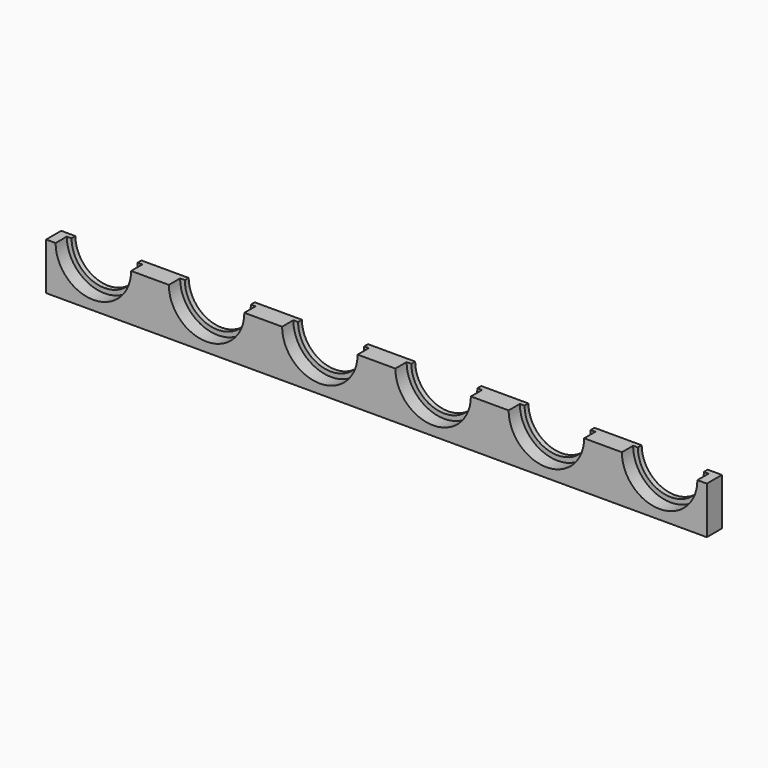
from build123d import *

# Parameters (mm, degrees)
F1_DEPTH  = 3.175
F3_DEPTH  = 2.3622
F5_DEPTH  = 1.5875
F7_DEPTH  = 1.5875
F9_DEPTH  = 2.3876
F11_DEPTH = 2.3876
F12_W     = 1.5875
F12_H     = 7.9375
F13_DEPTH = 25.4


with BuildPart() as f1:
    # F0 (on Front) → F1 (new body)
    with BuildSketch(Plane.XZ):
        with BuildLine():
            Line((-103.2002, -7.9375), (-95.25, -7.9375))
            ThreePointArc((-95.25, -7.9375), (-100.8626600757, -5.6126600757), (-103.1875, 0))
            Line((-103.1875, 0), (-103.2002, 0))
            Line((-103.2002, 0), (-103.2002, -7.9375))
        make_face()
        with BuildLine():
            Line((7.9375, -7.9375), (7.9375, 0))
            ThreePointArc((7.9375, 0), (5.6126600757, -5.6126600757), (0, -7.9375))
            Line((0, -7.9375), (7.9375, -7.9375))
        make_face()
        with BuildLine():
            ThreePointArc((0, -7.9375), (-5.6126600757, -5.6126600757), (-7.9375, 0))
            Line((-7.9375, 0), (-11.1125, 0))
            ThreePointArc((-11.1125, 0), (-13.4373399243, -5.6126600757), (-19.05, -7.9375))
            Line((-19.05, -7.9375), (0, -7.9375))
        make_face()
        with BuildLine():
            Line((-38.1, -7.9375), (-19.05, -7.9375))
            ThreePointArc((-19.05, -7.9375), (-24.6626600757, -5.6126600757), (-26.9875, 0))
            Line((-26.9875, 0), (-30.1625, 0))
            ThreePointArc((-30.1625, 0), (-32.4873399243, -5.6126600757), (-38.1, -7.9375))
        make_face()
        with BuildLine():
            Line((-57.1500000951, -7.9375), (-38.1, -7.9375))
            ThreePointArc((-38.1, -7.9375), (-43.7126600757, -5.6126600757), (-46.0375, 0))
            Line((-46.0375, 0), (-49.2125, 0))
            ThreePointArc((-49.2125, 0), (-51.537339958, -5.6126601093), (-57.1500000951, -7.9375))
        make_face()
        with BuildLine():
            Line((-76.2, -7.9375), (-57.1500000951, -7.9375))
            ThreePointArc((-57.1500000951, -7.9375), (-62.7626601093, -5.612660042), (-65.0875, 0))
            Line((-65.0875, 0), (-68.2625, 0))
            ThreePointArc((-68.2625, 0), (-70.5873399243, -5.6126600757), (-76.2, -7.9375))
        make_face()
        with BuildLine():
            Line((-95.25, -7.9375), (-76.2, -7.9375))
            ThreePointArc((-76.2, -7.9375), (-81.8126600757, -5.6126600757), (-84.1375, 0))
            Line((-84.1375, 0), (-87.3125, 0))
            ThreePointArc((-87.3125, 0), (-89.6373399243, -5.6126600757), (-95.25, -7.9375))
        make_face()
        with BuildLine():
            ThreePointArc((0, -6.35), (-4.4901280605, -4.4901280605), (-6.35, 0))
            Line((-6.35, 0), (-7.9375, 0))
            ThreePointArc((-7.9375, 0), (-5.6126600757, -5.6126600757), (0, -7.9375))
            Line((0, -7.9375), (0, -6.35))
        make_face()
        with BuildLine():
            ThreePointArc((-19.05, -7.9375), (-13.4373399243, -5.6126600757), (-11.1125, 0))
            Line((-11.1125, 0), (-12.7, 0))
            ThreePointArc((-12.7, 0), (-19.05, -6.35), (-25.4, 0))
            Line((-25.4, 0), (-26.9875, 0))
            ThreePointArc((-26.9875, 0), (-24.6626600757, -5.6126600757), (-19.05, -7.9375))
        make_face()
        with BuildLine():
            ThreePointArc((-46.0375, 0), (-43.7126600757, -5.6126600757), (-38.1, -7.9375))
            ThreePointArc((-38.1, -7.9375), (-32.4873399243, -5.6126600757), (-30.1625, 0))
            Line((-30.1625, 0), (-31.75, 0))
            ThreePointArc((-31.75, 0), (-38.1, -6.35), (-44.45, 0))
            Line((-44.45, 0), (-46.0375, 0))
        make_face()
        with BuildLine():
            ThreePointArc((-65.0875, 0), (-62.7626601093, -5.612660042), (-57.1500000951, -7.9375))
            ThreePointArc((-57.1500000951, -7.9375), (-51.537339958, -5.6126601093), (-49.2125, 0))
            Line((-49.2125, 0), (-50.8, 0))
            ThreePointArc((-50.8, 0), (-57.15, -6.35), (-63.5, 0))
            Line((-63.5, 0), (-65.0875, 0))
        make_face()
        with BuildLine():
            ThreePointArc((-84.1375, 0), (-81.8126600757, -5.6126600757), (-76.2, -7.9375))
            ThreePointArc((-76.2, -7.9375), (-70.5873399243, -5.6126600757), (-68.2625, 0))
            Line((-68.2625, 0), (-69.85, 0))
            ThreePointArc((-69.85, 0), (-76.2, -6.35), (-82.55, 0))
            Line((-82.55, 0), (-84.1375, 0))
        make_face()
        with BuildLine():
            Line((-95.25, -6.35), (-95.25, -7.9375))
            ThreePointArc((-95.25, -7.9375), (-89.6373399243, -5.6126600757), (-87.3125, 0))
            Line((-87.3125, 0), (-88.9, 0))
            ThreePointArc((-88.9, 0), (-90.7598719395, -4.4901280605), (-95.25, -6.35))
        make_face()
        with BuildLine():
            ThreePointArc((-103.1875, 0), (-100.8626600757, -5.6126600757), (-95.25, -7.9375))
            Line((-95.25, -7.9375), (-95.25, -6.35))
            ThreePointArc((-95.25, -6.35), (-99.7401280605, -4.4901280605), (-101.6, 0))
            Line((-101.6, 0), (-103.1875, 0))
        make_face()
        with BuildLine():
            Line((7.9375, 0), (6.35, 0))
            ThreePointArc((6.35, 0), (4.4901280605, -4.4901280605), (0, -6.35))
            Line((0, -6.35), (0, -7.9375))
            ThreePointArc((0, -7.9375), (5.6126600757, -5.6126600757), (7.9375, 0))
        make_face()
        with BuildLine():
            ThreePointArc((-82.55, 0), (-76.2, -6.35), (-69.85, 0))
            Line((-69.85, 0), (-70.64375, 0))
            ThreePointArc((-70.64375, 0), (-76.2, -5.55625), (-81.75625, 0))
            Line((-81.75625, 0), (-82.55, 0))
        make_face()
        with BuildLine():
            ThreePointArc((-63.5, 0), (-57.15, -6.35), (-50.8, 0))
            Line((-50.8, 0), (-51.59375, 0))
            ThreePointArc((-51.59375, 0), (-57.15, -5.55625), (-62.70625, 0))
            Line((-62.70625, 0), (-63.5, 0))
        make_face()
        with BuildLine():
            ThreePointArc((-44.45, 0), (-38.1, -6.35), (-31.75, 0))
            Line((-31.75, 0), (-32.54375, 0))
            ThreePointArc((-32.54375, 0), (-38.1, -5.55625), (-43.65625, 0))
            Line((-43.65625, 0), (-44.45, 0))
        make_face()
        with BuildLine():
            ThreePointArc((-25.4, 0), (-19.05, -6.35), (-12.7, 0))
            Line((-12.7, 0), (-13.49375, 0))
            ThreePointArc((-13.49375, 0), (-19.05, -5.55625), (-24.60625, 0))
            Line((-24.60625, 0), (-25.4, 0))
        make_face()
        with BuildLine():
            ThreePointArc((0, -5.55625), (-3.928862053, -3.928862053), (-5.55625, 0))
            Line((-5.55625, 0), (-6.35, 0))
            ThreePointArc((-6.35, 0), (-4.4901280605, -4.4901280605), (0, -6.35))
            Line((0, -6.35), (0, -5.55625))
        make_face()
        with BuildLine():
            Line((6.35, 0), (5.55625, 0))
            ThreePointArc((5.55625, 0), (3.928862053, -3.928862053), (0, -5.55625))
            Line((0, -5.55625), (0, -6.35))
            ThreePointArc((0, -6.35), (4.4901280605, -4.4901280605), (6.35, 0))
        make_face()
        with BuildLine():
            Line((-95.25, -5.55625), (-95.25, -6.35))
            ThreePointArc((-95.25, -6.35), (-90.7598719395, -4.4901280605), (-88.9, 0))
            Line((-88.9, 0), (-89.69375, 0))
            ThreePointArc((-89.69375, 0), (-91.321137947, -3.928862053), (-95.25, -5.55625))
        make_face()
        with BuildLine():
            ThreePointArc((-101.6, 0), (-99.7401280605, -4.4901280605), (-95.25, -6.35))
            Line((-95.25, -6.35), (-95.25, -5.55625))
            ThreePointArc((-95.25, -5.55625), (-99.178862053, -3.928862053), (-100.80625, 0))
            Line((-100.80625, 0), (-101.6, 0))
        make_face()
    extrude(amount=F1_DEPTH)

    # F2 (on face) → F3 (cut)
    with BuildSketch(Plane.XZ.offset(3.175)):
        with BuildLine():
            ThreePointArc((-101.6, 0), (-95.25, -6.35), (-88.9, 0))
            ThreePointArc((-88.9, 0), (-95.25, 6.35), (-101.6, 0))
        make_face()
        with BuildLine():
            ThreePointArc((-82.55, 0), (-76.2, -6.35), (-69.85, 0))
            ThreePointArc((-69.85, 0), (-76.2, 6.35), (-82.55, 0))
        make_face()
        with BuildLine():
            ThreePointArc((-63.5, 0), (-57.15, -6.35), (-50.8, 0))
            ThreePointArc((-50.8, 0), (-57.15, 6.35), (-63.5, 0))
        make_face()
        with BuildLine():
            ThreePointArc((-44.45, 0), (-38.1, -6.35), (-31.75, 0))
            ThreePointArc((-31.75, 0), (-38.1, 6.35), (-44.45, 0))
        make_face()
        with BuildLine():
            ThreePointArc((-25.4, 0), (-19.05, -6.35), (-12.7, 0))
            ThreePointArc((-12.7, 0), (-19.05, 6.35), (-25.4, 0))
        make_face()
        with BuildLine():
            ThreePointArc((-6.35, 0), (0, -6.35), (6.35, 0))
            ThreePointArc((6.35, 0), (0, 6.35), (-6.35, 0))
        make_face()
    extrude(amount=-F3_DEPTH, mode=Mode.SUBTRACT)

    # F4 (on face) → F5 (join)
    with BuildSketch(Plane.YZ.offset(7.9375)):
        Polygon((-2.38125, 0), (-3.175, 0), (-3.175, -7.9375), (0, -7.9375), (0, 0), (-0.79375, 0), (-0.79375, -3.175), (-0.79375, -4.7625), (-2.38125, -4.7625), (-2.38125, -3.175), align=None)
    extrude(amount=F5_DEPTH)

    # F6 (on face) → F7 (join)
    with BuildSketch(Plane(origin=(-103.2002, 0, 0), x_dir=(0, -1, 0), z_dir=(-1, 0, 0))):
        Polygon((0.79375, 0), (0, 0), (0, -7.9375), (3.175, -7.9375), (3.175, 0), (2.38125, 0), (2.38125, -3.175), (2.38125, -4.7625), (0.79375, -4.7625), (0.79375, -3.175), align=None)
    extrude(amount=F7_DEPTH)

    # F8 (on face) → F9 (join)
    with BuildSketch(Plane(origin=(0, 0, 0), x_dir=(-1, 0, 0), z_dir=(0, 1, 0))):
        Polygon((-7.9375, -3.175), (-7.9375, 0), (-9.525, -3.175), align=None)
    extrude(amount=-F9_DEPTH)

    # F10 (on face) → F11 (join)
    with BuildSketch(Plane(origin=(0, 0, 0), x_dir=(-1, 0, 0), z_dir=(0, 1, 0))):
        Polygon((104.7877, -3.175), (103.99395, 0), (103.99395, -3.175), align=None)
    extrude(amount=-F11_DEPTH)

    # F12 (on face) → F13 (cut)
    with BuildSketch(Plane.XZ.offset(3.175)):
        with Locations((8.73125, -3.96875)):
            Rectangle(F12_W, F12_H)
        with Locations((-103.99395, -3.96875)):
            Rectangle(F12_W, F12_H)
    extrude(amount=-F13_DEPTH, mode=Mode.SUBTRACT)


solid = f1.part
